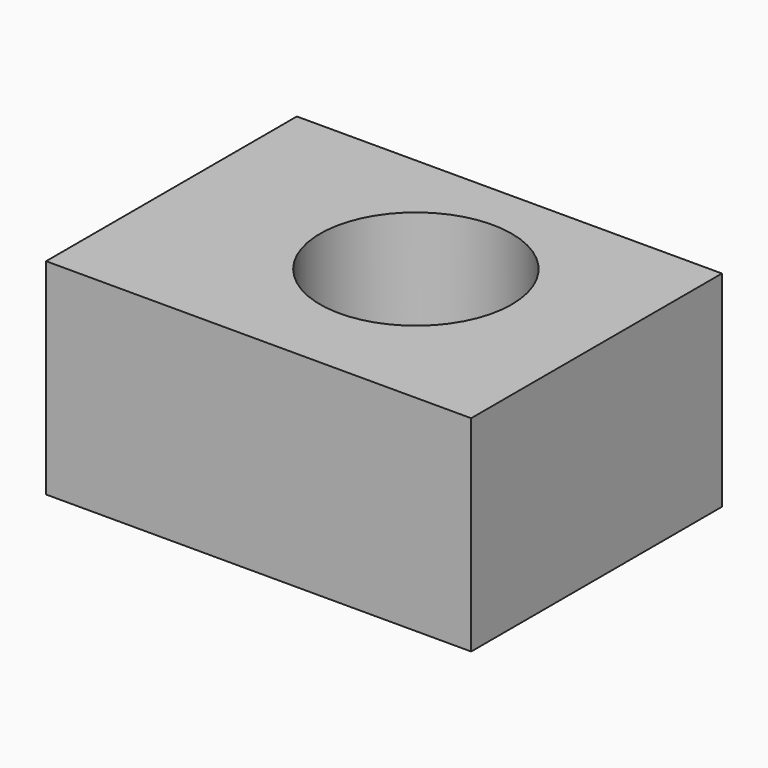
from build123d import *

# Parameters (mm, degrees)
F0_W     = 15.52
F0_H     = 11.443967
F0_R     = 3.5
F1_DEPTH = 3.75


with BuildPart() as f1:
    # F0 (on Top) → F1 (new body, symmetric)
    with BuildSketch(Plane.XY):
        with Locations((-35.109139, 23.954742)):
            Rectangle(F0_W, F0_H)
        with Locations((-34.331899, 24.439655)):
            Circle(F0_R, mode=Mode.SUBTRACT)
    extrude(amount=F1_DEPTH, both=True)


solid = f1.part
